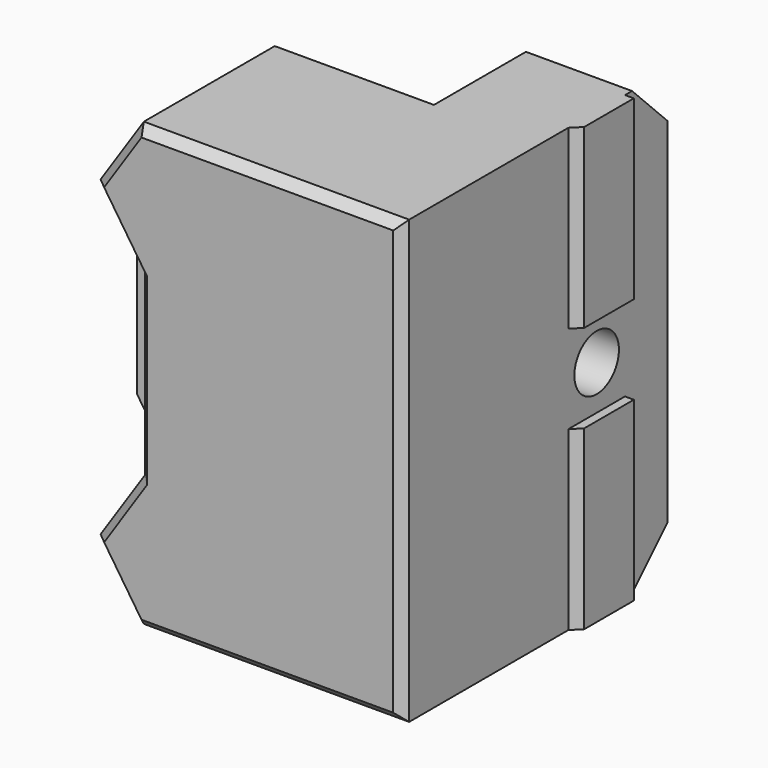
from build123d import *

# Parameters (mm, degrees)
SKETCH047_R     = 2
PAD012_DEPTH    = 25
SKETCH048_R     = 3.15
POCKET030_DEPTH = 40.001
SKETCH049_W     = 28
SKETCH049_H     = 50
POCKET031_DEPTH = 18
PAD013_DEPTH    = 12.5
SKETCH051_W     = 20
SKETCH051_H     = 8
PAD014_DEPTH    = 1
CHAMFER009_SIZE = 0.99
CHAMFER010_SIZE = 1
CHAMFER011_SIZE = 5


with BuildPart() as part:
    # Sketch047 → Pad012 (new body)
    with BuildSketch(Plane.XZ):
        Polygon((0, 0), (-30, 0), (-40, 15), (-40, 35), (-30, 50), (0, 50), align=None)
        with Locations((-35, 25)):
            Circle(SKETCH047_R, mode=Mode.SUBTRACT)
    extrude(amount=-PAD012_DEPTH)

    # Sketch048 (on Face6 of Pad012) → Pocket030 (cut, through all)
    with BuildSketch(Plane(origin=(0, 0, 0), x_dir=(0, 0, 1), z_dir=(1, 0, 0))):
        with Locations((25, -15)):
            Circle(SKETCH048_R)
    extrude(amount=-POCKET030_DEPTH, mode=Mode.SUBTRACT)

    # Sketch049 (on Face5 of Pocket030) → Pocket031 (cut)
    with BuildSketch(Plane(origin=(0, 25, 0), x_dir=(1, 0, 0), z_dir=(0, 1, 0))):
        with Locations((-26, -25)):
            Rectangle(SKETCH049_W, SKETCH049_H)
    extrude(amount=-POCKET031_DEPTH, mode=Mode.SUBTRACT)

    # Sketch050 (on Face2 of Pocket031) → Pad013 (join)
    with BuildSketch(Plane.XZ):
        Polygon((-34.891667, 42.6625), (-29.85, 35.1), (-29.85, 14.9), (-34.891667, 7.3375), (-30, 0), (0, 0), (0, 50), (-30, 50), align=None)
    extrude(amount=PAD013_DEPTH)

    # Sketch051 (on Face14 of Pad013) → Pad014 (join)
    with BuildSketch(Plane(origin=(0, 0, 0), x_dir=(0, 0, 1), z_dir=(1, 0, 0))):
        with Locations((10, -15)):
            Rectangle(SKETCH051_W, SKETCH051_H)
        with Locations((40, -15)):
            Rectangle(SKETCH051_W, SKETCH051_H)
    extrude(amount=PAD014_DEPTH)

    # Chamfer009
    chamfer009_edges = [part.edges().sort_by_distance(p)[0] for p in [
        (1, 11, 40),
        (1, 11, 10),
    ]]
    chamfer(chamfer009_edges, length=CHAMFER009_SIZE)

    # Chamfer010
    chamfer010_edges = [part.edges().sort_by_distance(p)[0] for p in [
        (-32.370833, -12.5, 38.88125),
        (-29.85, -12.5, 25),
        (-32.370833, -12.5, 11.11875),
        (-32.445833, -12.5, 3.66875),
        (-15, -12.5, 0),
        (0, -12.5, 25),
        (-15, -12.5, 50),
        (-32.445833, -12.5, 46.33125),
    ]]
    chamfer(chamfer010_edges, length=CHAMFER010_SIZE)

    # Chamfer011
    chamfer011_edges = [part.edges().sort_by_distance(p)[0] for p in [
        (-6, 25, 50),
        (-6, 25, 0),
    ]]
    chamfer(chamfer011_edges, length=CHAMFER011_SIZE)


with BuildPart() as part_1:
    # Body004 placement: moved
    add(part.part.moved(Location((60, -25, -40))))


solid = part_1.part
